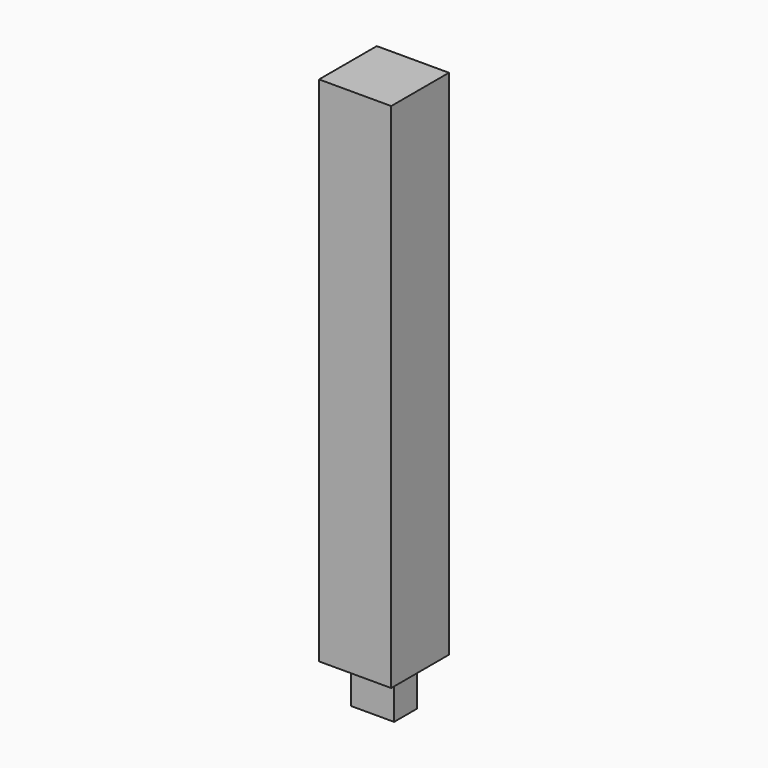
from build123d import *

# Parameters (mm, degrees)
F2_W     = 100
F2_H     = 100
F3_DEPTH = 710
F4_W     = 60
F4_H     = 40
F5_DEPTH = 60


with BuildPart() as f3:
    # F2 (on Top) → F3 (new body)
    with BuildSketch(Plane.XY):
        Rectangle(F2_W, F2_H)
    extrude(amount=F3_DEPTH)

    # F4 (on Top) → F5 (join)
    with BuildSketch(Plane.XY):
        Rectangle(F4_W, F4_H)
    extrude(amount=-F5_DEPTH)


solid = f3.part
